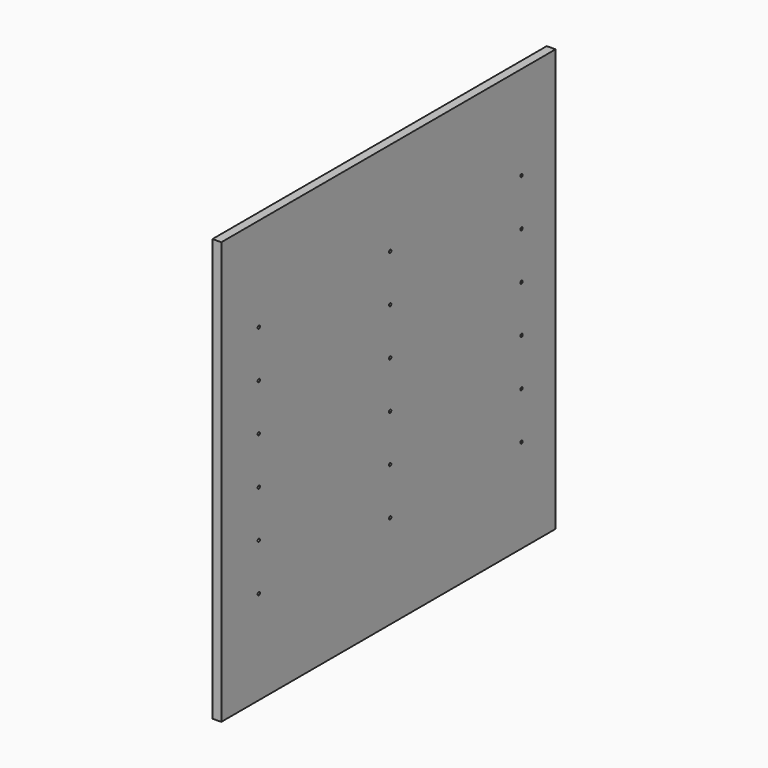
from build123d import *

# Parameters (mm, degrees)
F0_W     = 904.875
F0_H     = 914.4
F1_DEPTH = 19.05
F3_D     = 6.35
F3_DEPTH = 6.35
F3_TIP   = 1.9077324654


with BuildPart() as f1:
    # F0 (on Right) → F1 (new body)
    with BuildSketch(Plane.YZ):
        Rectangle(F0_W, F0_H)
    extrude(amount=-F1_DEPTH)

    # F3
    with Locations(Plane.YZ):
        with Locations((360.3625, -254), (-350.8375, -152.4), (360.3625, 254), (4.7625, 254), (360.3625, -152.4), (360.3625, 152.4), (-350.8375, -254), (4.7625, 152.4), (360.3625, -50.8), (-350.8375, 152.4), (360.3625, 50.8), (-350.8375, 254), (4.7625, -152.4), (-350.8375, -50.8), (4.7625, -50.8), (-350.8375, 50.8), (4.7625, 50.8), (4.7625, -254)):
            Hole(F3_D / 2, depth=F3_DEPTH)
            with Locations((0, 0, -(F3_DEPTH + F3_TIP / 2))):  # 118° drill point
                Cone(0, F3_D / 2, F3_TIP, mode=Mode.SUBTRACT)


solid = f1.part
